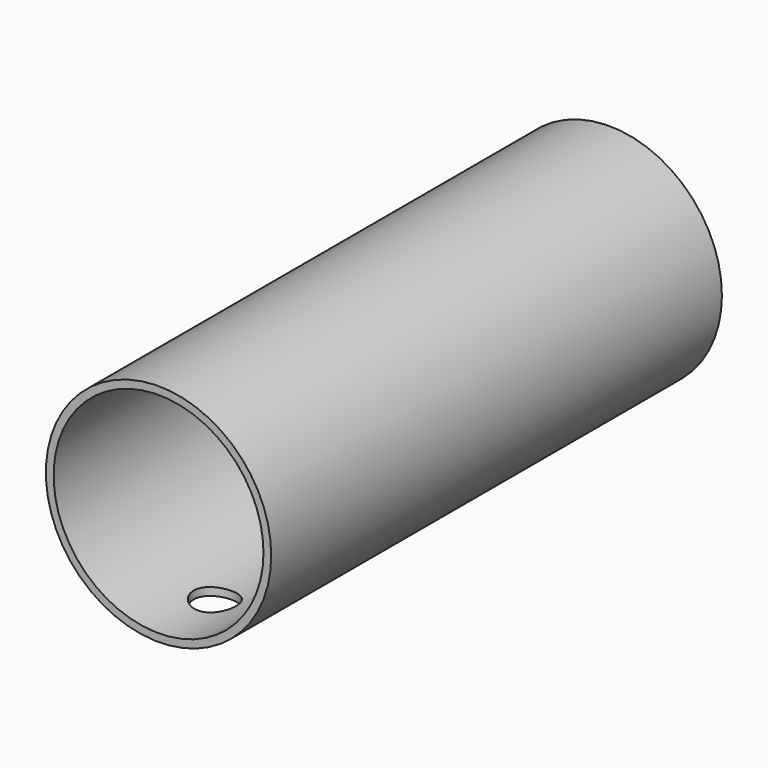
from build123d import *

# Parameters (mm, degrees)
SKETCH003_R     = 8
PAD003_DEPTH    = 40
SKETCH004_R     = 1.5
POCKET_DEPTH    = 5
SKETCH005_R     = 7.45
POCKET001_DEPTH = 40.001


with BuildPart() as part:
    # Sketch003 → Pad003 (new body)
    with BuildSketch(Plane.XZ):
        with Locations((0, 15)):
            Circle(SKETCH003_R)
    extrude(amount=-PAD003_DEPTH)

    # Sketch004 (on DatumPlane) → Pocket (cut)
    with BuildSketch(Plane.XY.offset(10)):
        with Locations((0, 5)):
            Circle(SKETCH004_R)
    extrude(amount=-POCKET_DEPTH, mode=Mode.SUBTRACT)

    # Sketch005 → Pocket001 (cut, through all)
    with BuildSketch(Plane.XZ):
        with Locations((0, 15)):
            Circle(SKETCH005_R)
    extrude(amount=-POCKET001_DEPTH, mode=Mode.SUBTRACT)


with BuildPart() as part_1:
    # Body003 placement: moved
    add(part.part.moved(Location((0, -13, 0))))


solid = part_1.part
